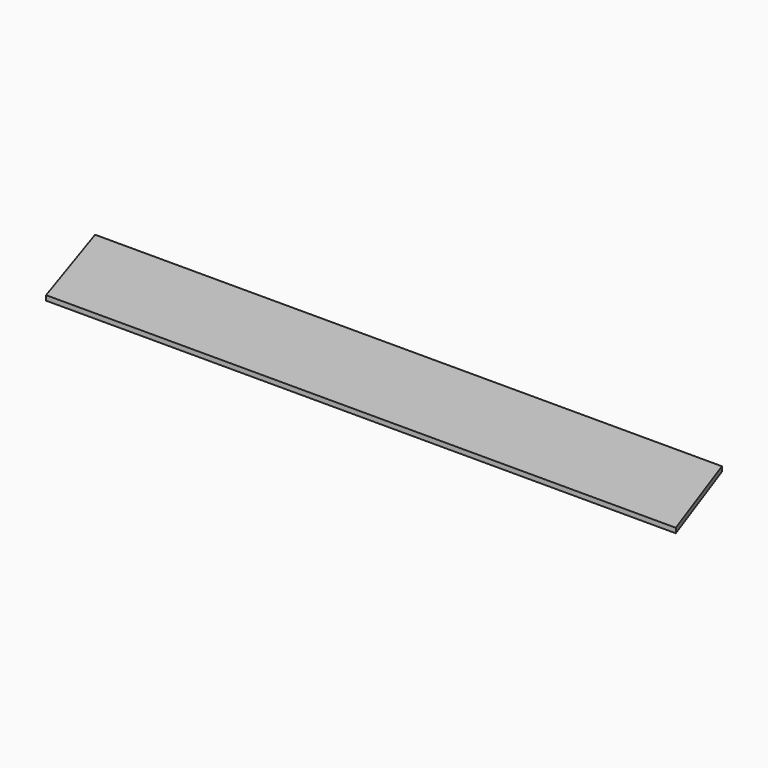
from build123d import *

# Parameters (mm, degrees)
F1_DEPTH = 3.175
F3_DEPTH = 25.4


with BuildPart() as f1:
    # F0 (on Top) → F1 (new body)
    with BuildSketch(Plane.XY):
        Polygon((-431.892831, 0), (0, 0), (-23.968831, 67.498634), (-431.892831, 67.498634), align=None)
    extrude(amount=F1_DEPTH)

    # F2 (on face) → F3 (cut)
    with BuildSketch(Plane.XY.offset(3.175)):
        Polygon((-409.779191, 0), (-431.892831, 67.498634), (-431.892831, 0), align=None)
    extrude(amount=-F3_DEPTH, mode=Mode.SUBTRACT)


solid = f1.part
